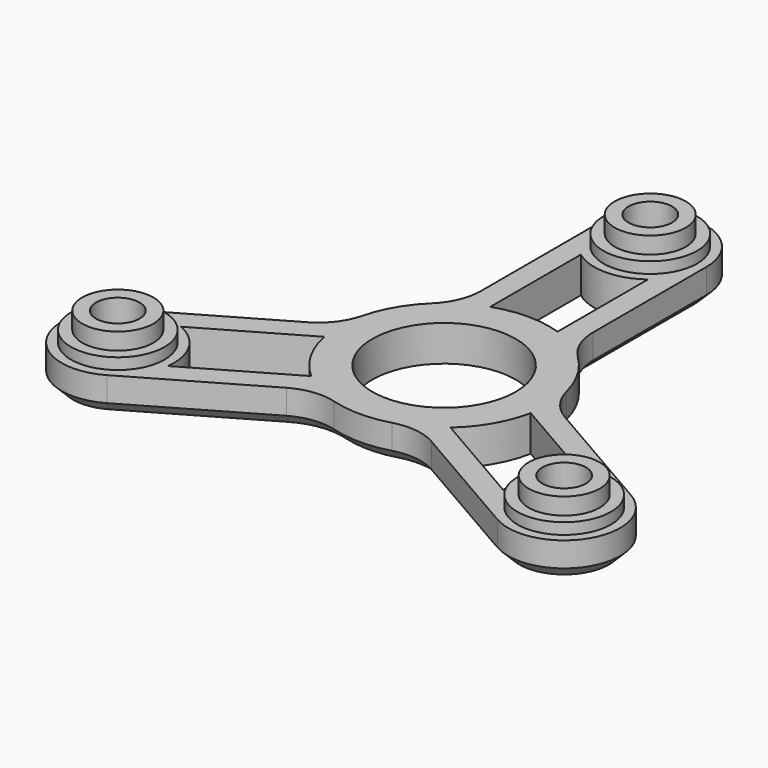
from build123d import *

# Parameters (mm, degrees)
F1_DEPTH  = 3.2
F3_COUNT  = 3
F4_R      = 4.175
F5_DEPTH  = 1
F6_R      = 3.175
F7_DEPTH  = 1.5
F8_R      = 1.95
F9_DEPTH  = 5.7
F10_R     = 6.4
F11_DEPTH = 25
F12_R     = 5
F13_SIZE  = 1


with BuildPart() as f1:
    # F0 (on Top) → F1 (new body)
    with BuildSketch(Plane.XY):
        with BuildLine():
            Line((-3, 8.9084229805), (-3, 19))
            ThreePointArc((-3, 19), (0, 18), (3, 19))
            Line((3, 19), (3, 8.9084229805))
            ThreePointArc((3, 8.9084229805), (4.0280174031, 8.4932370625), (5, 7.9598994969))
            Line((5, 7.9598994969), (5, 23))
            ThreePointArc((5, 23), (0, 28), (-5, 23))
            Line((-5, 23), (-5, 7.9598994969))
            ThreePointArc((-5, 7.9598994969), (-4.0280174031, 8.4932370625), (-3, 8.9084229805))
        make_face()
        with BuildLine():
            Line((-3, 7.5055534995), (-3, 8.9084229805))
            ThreePointArc((-3, 8.9084229805), (-4.0280174031, 8.4932370625), (-5, 7.9598994969))
            Line((-5, 7.9598994969), (-5, 2.8867513459))
            Line((-5, 2.8867513459), (0, 0))
            Line((0, 0), (5, 2.8867513459))
            Line((5, 2.8867513459), (5, 7.9598994969))
            ThreePointArc((5, 7.9598994969), (4.0280174031, 8.4932370625), (3, 8.9084229805))
            Line((3, 8.9084229805), (3, 7.5055534995))
            Line((3, 7.5055534995), (0, 5.7735026919))
            Line((0, 5.7735026919), (-3, 7.5055534995))
        make_face()
        with BuildLine():
            Line((-5, 2.8867513459), (-5, 7.9598994969))
            ThreePointArc((-5, 7.9598994969), (-4.5475268004, -8.2267855205), (9.4, 0))
            ThreePointArc((9.4, 0), (8.2267855205, 4.5475268004), (5, 7.9598994969))
            Line((5, 7.9598994969), (5, 2.8867513459))
            Line((5, 2.8867513459), (0, 0))
            Line((0, 0), (-5, 2.8867513459))
        make_face()
    extrude(amount=F1_DEPTH)

    # F3: F1 ×3 about axis
    f3_axis = Axis((0, 0, 19.5818599313), (0, 0, 1))


with BuildPart() as f1_1:
    add(f1.part)
    for i in range(1, F3_COUNT):
        add(f1.part.rotate(f3_axis, i * 360 / F3_COUNT))

    # F4 (on face) → F5 (join)
    with BuildSketch(Plane.XY.offset(3.2)):
        with Locations((0, 23)):
            Circle(F4_R)
        with Locations((-19.918584287, -11.5)):
            Circle(F4_R)
        with Locations((19.918584287, -11.5)):
            Circle(F4_R)
    extrude(amount=F5_DEPTH)

    # F6 (on face) → F7 (join)
    with BuildSketch(Plane.XY.offset(4.2)):
        with Locations((0, 23)):
            Circle(F6_R)
        with Locations((-19.918584287, -11.5)):
            Circle(F6_R)
        with Locations((19.918584287, -11.5)):
            Circle(F6_R)
    extrude(amount=F7_DEPTH)

    # F8 (on face) → F9 (cut, through all)
    with BuildSketch(Plane.XY.offset(5.7)):
        with Locations((0, 23)):
            Circle(F8_R)
        with Locations((-19.918584287, -11.5)):
            Circle(F8_R)
        with Locations((19.918584287, -11.5)):
            Circle(F8_R)
    extrude(amount=-F9_DEPTH, mode=Mode.SUBTRACT)

    # F10 (on face) → F11 (cut)
    with BuildSketch(Plane.XY.offset(3.2)):
        Circle(F10_R)
    extrude(amount=-F11_DEPTH, mode=Mode.SUBTRACT)

    # F12
    f12_edges = [f1_1.edges().sort_by_distance(p)[0] for p in [
        (-5, 7.959899, 1.6),
        (-9.393475, 0.350177, 1.6),
        (-4.393475, -8.310077, 1.6),
        (4.393475, -8.310077, 1.6),
        (9.393475, 0.350177, 1.6),
        (5, 7.959899, 1.6),
    ]]
    fillet(f12_edges, radius=F12_R)

    # F13
    f13_edges = [f1_1.edges().sort_by_distance(p)[0] for p in [
        (-24.248711, -14, 0),
    ]]
    chamfer(f13_edges, length=F13_SIZE)


solid = f1_1.part
